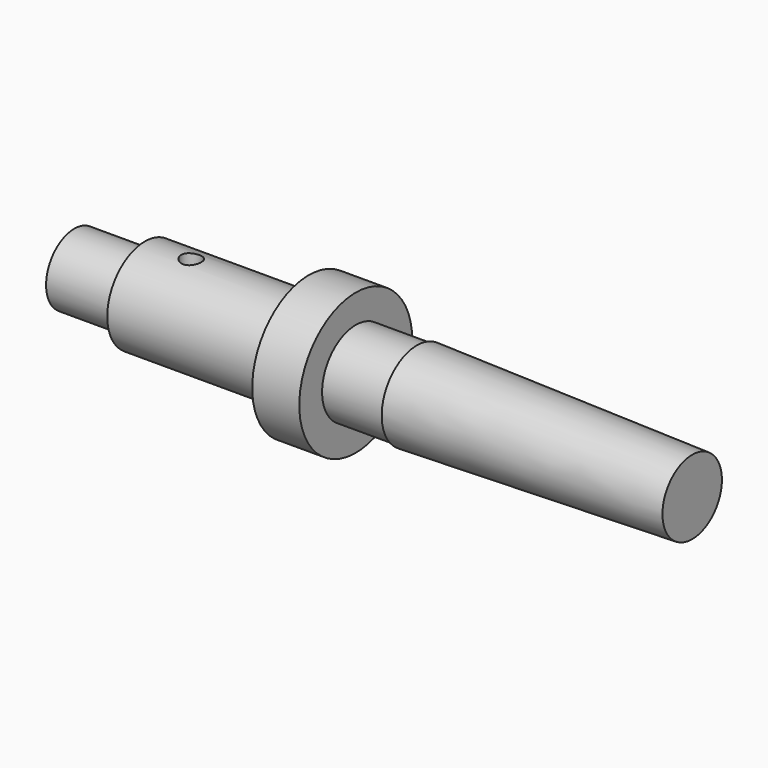
from build123d import *

# Parameters (mm, degrees)
F0_R      = 19.05
F1_DEPTH  = 12.7
F2_R      = 12.7
F3_DEPTH  = 44.196
F4_R      = 9.525
F5_DEPTH  = 19.05
F6_R      = 11.3538
F7_DEPTH  = 16.51
F8_R      = 11.8872
F8_R_2    = 11.3538
F9_DEPTH  = 74.2696
F9_TAPER  = 1.43
F11_R     = 2.7051
F12_DEPTH = 12.7


with BuildPart() as f1:
    # F0 (on Right) → F1 (new body)
    with BuildSketch(Plane.YZ):
        Circle(F0_R)
    extrude(amount=F1_DEPTH)

    # F2 (on face) → F3 (join)
    with BuildSketch(Plane(origin=(0, 0, 0), x_dir=(0, -1, 0), z_dir=(-1, 0, 0))):
        Circle(F2_R)
    extrude(amount=F3_DEPTH)

    # F4 (on face) → F5 (join)
    with BuildSketch(Plane(origin=(-44.196, 0, 0), x_dir=(0, -1, 0), z_dir=(-1, 0, 0))):
        Circle(F4_R)
    extrude(amount=F5_DEPTH)

    # F6 (on face) → F7 (join)
    with BuildSketch(Plane.YZ.offset(12.7)):
        Circle(F6_R)
    extrude(amount=F7_DEPTH)

    # F8 (on face) → F9 (join)
    with BuildSketch(Plane.YZ.offset(29.21)):
        Circle(F8_R)
        Circle(F8_R_2, mode=Mode.SUBTRACT)
        Circle(F8_R_2)
    extrude(amount=F9_DEPTH, taper=F9_TAPER)

    # F11 (on offset) → F12 (cut)
    with BuildSketch(Plane.XY.offset(12.7)):
        with Locations((-31.6738, 0)):
            Circle(F11_R)
    extrude(amount=-F12_DEPTH, mode=Mode.SUBTRACT)


solid = f1.part
